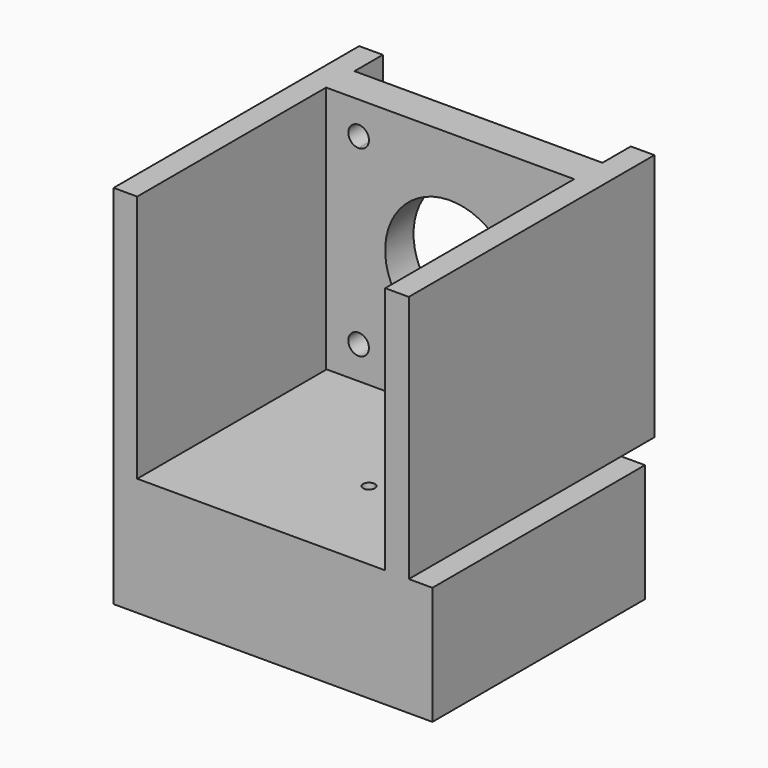
from build123d import *

# Parameters (mm, degrees)
F0_W     = 42
F0_H     = 42
F0_R     = 11
F1_DEPTH = 6
F0_W_2   = 4
F0_H_2   = 20
F2_DEPTH = 40
F3_DEPTH = 5
F4_DEPTH = 40
F6_R     = 1
F7_DEPTH = 25
F8_DEPTH = 12


with BuildPart() as f1:
    # F0 (on Front) → F1 (new body)
    with BuildSketch(Plane.XZ):
        Rectangle(F0_W, F0_H)
        with BuildLine():
            ThreePointArc((-15.5, 13.75), (-16.7374368671, 16.7374368671), (-13.75, 15.5))
            Line((-13.75, 15.5), (15.5, 15.5))
            Line((15.5, 15.5), (15.5, -13.75))
            ThreePointArc((15.5, -13.75), (16.7374368671, -14.2625631329), (17.25, -15.5))
            ThreePointArc((17.25, -15.5), (15.5, -17.25), (13.75, -15.5))
            Line((13.75, -15.5), (-13.75, -15.5))
            ThreePointArc((-13.75, -15.5), (-16.7374368671, -16.7374368671), (-15.5, -13.75))
            Line((-15.5, -13.75), (-15.5, 13.75))
        make_face(mode=Mode.SUBTRACT)
        with BuildLine():
            Line((15.5, 15.5), (-13.75, 15.5))
            ThreePointArc((-13.75, 15.5), (-14.2625631329, 14.2625631329), (-15.5, 13.75))
            Line((-15.5, 13.75), (-15.5, -13.75))
            ThreePointArc((-15.5, -13.75), (-14.2625631329, -14.2625631329), (-13.75, -15.5))
            Line((-13.75, -15.5), (13.75, -15.5))
            ThreePointArc((13.75, -15.5), (14.2625631329, -14.2625631329), (15.5, -13.75))
            Line((15.5, -13.75), (15.5, 15.5))
        make_face()
        Circle(F0_R, mode=Mode.SUBTRACT)
    extrude(amount=-F1_DEPTH)



with BuildPart() as f2:
    # F0 (on Front) → F2 (new body)
    with BuildSketch(Plane.XZ):
        with Locations((-23, -31.0743206739)):
            Rectangle(F0_W_2, F0_H_2)
        with Locations((0, -31.0743206739)):
            Rectangle(F0_W, F0_H_2)
        with Locations((23, -31.0743206739)):
            Rectangle(F0_W_2, F0_H_2)
        with Locations((27, -31.0743206739)):
            Rectangle(F0_W_2, F0_H_2)
    extrude(amount=F2_DEPTH)

    # F3 (add): a face of the model
    f3_faces = [f2.faces().sort_by_distance(p)[0] for p in [
        (2, 0, -31.0743206739),
    ]]
    extrude(f3_faces, amount=F3_DEPTH)


with BuildPart() as f1_1:
    add(f1.part)

    add(f2.part)  # F4 merges F2
    # F0 (on Front) → F4 (join)
    with BuildSketch(Plane.XZ):
        Polygon((-21, -21), (-21, 21), (-25, 21), (-25, -21.0743206739), (-21, -21.0743206739), align=None)
        with Locations((-23, -31.0743206739)):
            Rectangle(F0_W_2, F0_H_2)
        Polygon((25, 21), (21, 21), (21, -21), (21, -21.0743206739), (25, -21.0743206739), align=None)
        with Locations((23, -31.0743206739)):
            Rectangle(F0_W_2, F0_H_2)
    extrude(amount=F4_DEPTH)

    # F5: union 

    # F6 (on face) → F7 (cut)
    with BuildSketch(Plane.XY.offset(-21.0743206739)):
        with Locations((4.25, -22.5)):
            Circle(F6_R)
    extrude(amount=-F7_DEPTH, mode=Mode.SUBTRACT)

    # F8 (add): faces of the model
    f8_faces = [f1_1.faces().sort_by_distance(p)[0] for p in [
        (23, 0, -0.037160337),
        (-23, 0, -0.037160337),
    ]]
    extrude(f8_faces, amount=F8_DEPTH)


solid = f1_1.part
